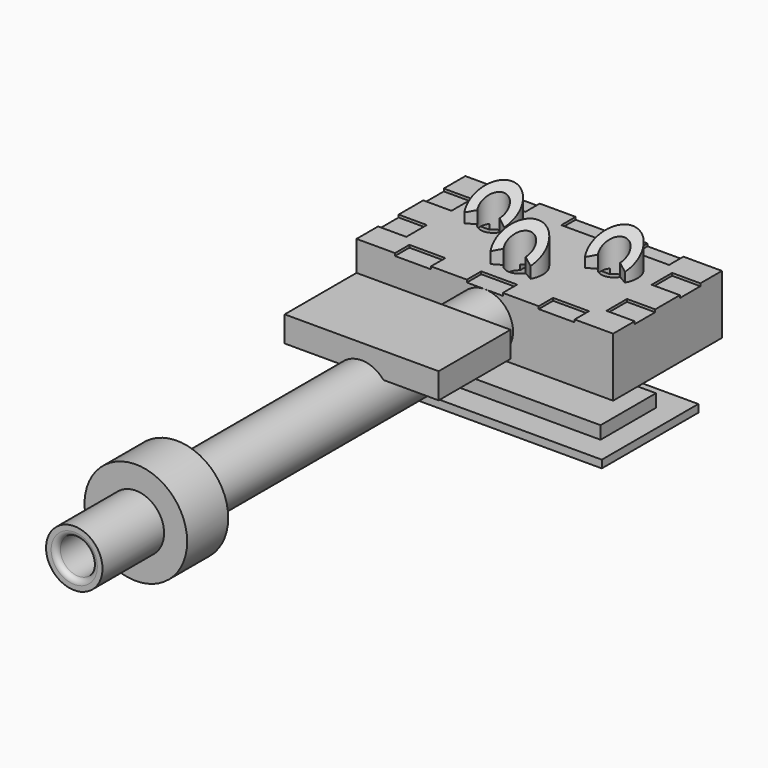
from build123d import *

# Parameters (mm, degrees)
BOX_W                           = 10
BOX_H                           = 5.3
BOX_DEPTH                       = 2.3
CYLINDER001_W                   = 0.9
CYLINDER001_H                   = 3
CYLINDER001_ANGLE               = 240
CYLINDER_R                      = 0.5
CYLINDER_DEPTH                  = 4
CYLINDER002_W                   = 0.9
CYLINDER002_H                   = 3
CYLINDER002_ANGLE               = 240
CYLINDER003_R                   = 0.5
CYLINDER003_DEPTH               = 4
CYLINDER004_W                   = 0.9
CYLINDER004_H                   = 3
CYLINDER004_ANGLE               = 240
CYLINDER005_R                   = 0.5
CYLINDER005_DEPTH               = 4
CYLINDER009_R                   = 1.1
CYLINDER009_DEPTH               = 21
CYLINDER006_R                   = 2
CYLINDER006_DEPTH               = 2
CYLINDER007_R                   = 0.7
CYLINDER007_DEPTH               = 22
BOX003_W                        = 8
BOX003_H                        = 3.3
BOX003_DEPTH                    = 2
BOX004_W                        = 6
BOX004_H                        = 3.5
BOX004_DEPTH                    = 1
BOX005_W                        = 1.4
BOX005_H                        = 0.7
BOX005_DEPTH                    = 0.1
BOX005_LINEARPATTERN_2_W        = 1.4
BOX005_LINEARPATTERN_2_H        = 0.7
BOX005_LINEARPATTERN_2_DEPTH    = 0.1
BOX005_LINEARPATTERN_3_W        = 1.4
BOX005_LINEARPATTERN_3_H        = 0.7
BOX005_LINEARPATTERN_3_DEPTH    = 0.1
LINEARPATTERN001_COUNT          = 2
LINEARPATTERN001_PITCH          = 4.6
BOX006_W                        = 1.1
BOX006_H                        = 1
BOX006_DEPTH                    = 0.2
BOX006_LINEARPATTERN003_2_W     = 1.1
BOX006_LINEARPATTERN003_2_H     = 1
BOX006_LINEARPATTERN003_2_DEPTH = 0.2
LINEARPATTERN004_COUNT          = 2
LINEARPATTERN004_PITCH          = 2.2
BOX007_W                        = 2
BOX007_H                        = 2
BOX007_DEPTH                    = 3.3
BOX008_W                        = 2.2
BOX008_H                        = 2
BOX008_DEPTH                    = 3.3
LINEARPATTERN005_COUNT          = 2
LINEARPATTERN005_PITCH          = 5
BOX009_W                        = 1.7
BOX009_H                        = 0.65
BOX009_DEPTH                    = 1
LINEARPATTERN006_COUNT          = 2
LINEARPATTERN006_PITCH          = 4.6
BOX010_W                        = 0.65
BOX010_H                        = 1.7
BOX010_DEPTH                    = 0.2
FILLET_R                        = 0.2
FILLET001_R                     = 0.2
BOX011_W                        = 9.2
BOX011_H                        = 4.7
BOX011_DEPTH                    = 0.3
BOX012_W                        = 7.5
BOX012_H                        = 2.7
BOX012_DEPTH                    = 0.6


with BuildPart() as body:
    # Box → Box (join)
    with BuildSketch(Plane(origin=(-1, -1, -1.2), x_dir=(1, 0, 0), z_dir=(0, 0, 1))):
        with Locations((5, 2.65)):
            Rectangle(BOX_W, BOX_H)
    extrude(amount=BOX_DEPTH)

    # Cylinder001 → Cylinder001 (revolve)
    with BuildSketch(Plane(origin=(1.7, 2.3, 0.5), x_dir=(0.866025, -0.5, 0), z_dir=(-0.5, -0.866025, 0))):
        with Locations((0.45, 1.5)):
            Rectangle(CYLINDER001_W, CYLINDER001_H)
    revolve(axis=Axis((1.7, 2.3, 0.5), (0, 0, 1)), revolution_arc=CYLINDER001_ANGLE)

    # Cylinder → Cylinder (cut)
    with BuildSketch(Plane(origin=(1.7, 2.3, -1), x_dir=(1, 0, 0), z_dir=(0, 0, 1))):
        Circle(CYLINDER_R)
    extrude(amount=CYLINDER_DEPTH, mode=Mode.SUBTRACT)

    # Cylinder002 → Cylinder002 (revolve)
    with BuildSketch(Plane(origin=(6.4, 2.3, 0.5), x_dir=(0.866025, -0.5, 0), z_dir=(-0.5, -0.866025, 0))):
        with Locations((0.45, 1.5)):
            Rectangle(CYLINDER002_W, CYLINDER002_H)
    revolve(axis=Axis((6.4, 2.3, 0.5), (0, 0, 1)), revolution_arc=CYLINDER002_ANGLE)

    # Cylinder003 → Cylinder003 (cut)
    with BuildSketch(Plane(origin=(6.4, 2.3, -1), x_dir=(1, 0, 0), z_dir=(0, 0, 1))):
        Circle(CYLINDER003_R)
    extrude(amount=CYLINDER003_DEPTH, mode=Mode.SUBTRACT)

    # Cylinder004 → Cylinder004 (revolve)
    with BuildSketch(Plane(origin=(4, 0.7, 0.5), x_dir=(0.866025, -0.5, 0), z_dir=(-0.5, -0.866025, 0))):
        with Locations((0.45, 1.5)):
            Rectangle(CYLINDER004_W, CYLINDER004_H)
    revolve(axis=Axis((4, 0.7, 0.5), (0, 0, 1)), revolution_arc=CYLINDER004_ANGLE)

    # Cylinder005 → Cylinder005 (cut)
    with BuildSketch(Plane(origin=(4, 0.7, -1), x_dir=(1, 0, 0), z_dir=(0, 0, 1))):
        Circle(CYLINDER005_R)
    extrude(amount=CYLINDER005_DEPTH, mode=Mode.SUBTRACT)

    # Cylinder009 → Cylinder009 (join)
    with BuildSketch(Plane(origin=(4, 0, -0.1), x_dir=(1, 0, 0), z_dir=(0, -1, 0))):
        Circle(CYLINDER009_R)
    extrude(amount=CYLINDER009_DEPTH)

    # Cylinder006 → Cylinder006 (join)
    with BuildSketch(Plane(origin=(4, -16, -0.1), x_dir=(1, 0, 0), z_dir=(0, -1, 0))):
        Circle(CYLINDER006_R)
    extrude(amount=CYLINDER006_DEPTH)

    # Cylinder007 → Cylinder007 (cut)
    with BuildSketch(Plane(origin=(4, 1, -0.1), x_dir=(1, 0, 0), z_dir=(0, -1, 0))):
        Circle(CYLINDER007_R)
    extrude(amount=CYLINDER007_DEPTH, mode=Mode.SUBTRACT)

    # Box003 → Box003 (cut)
    with BuildSketch(Plane.XY.offset(-1.3)):
        with Locations((4, 1.65)):
            Rectangle(BOX003_W, BOX003_H)
    extrude(amount=BOX003_DEPTH, mode=Mode.SUBTRACT)

    # Box004 → Box004 (join)
    with BuildSketch(Plane(origin=(1, -7, 0.6), x_dir=(1, 0, 0), z_dir=(0, 0, 1))):
        with Locations((3, 1.75)):
            Rectangle(BOX004_W, BOX004_H)
    extrude(amount=BOX004_DEPTH)

    # Box005 → Box005 (cut)
    with BuildSketch(Plane(origin=(0.5, -1, 1), x_dir=(1, 0, 0), z_dir=(0, 0, 1))):
        with Locations((0.7, 0.35)):
            Rectangle(BOX005_W, BOX005_H)
    box005 = extrude(amount=BOX005_DEPTH, mode=Mode.SUBTRACT)

    # Box005 LinearPattern 2 → Box005 LinearPattern 2 (cut)
    with BuildSketch(Plane(origin=(3.3, -1, 1), x_dir=(1, 0, 0), z_dir=(0, 0, 1))):
        with Locations((0.7, 0.35)):
            Rectangle(BOX005_LINEARPATTERN_2_W, BOX005_LINEARPATTERN_2_H)
    box005_linearpattern_2 = extrude(amount=BOX005_LINEARPATTERN_2_DEPTH, mode=Mode.SUBTRACT)

    # Box005 LinearPattern 3 → Box005 LinearPattern 3 (cut)
    with BuildSketch(Plane(origin=(6.1, -1, 1), x_dir=(1, 0, 0), z_dir=(0, 0, 1))):
        with Locations((0.7, 0.35)):
            Rectangle(BOX005_LINEARPATTERN_3_W, BOX005_LINEARPATTERN_3_H)
    box005_linearpattern_3 = extrude(amount=BOX005_LINEARPATTERN_3_DEPTH, mode=Mode.SUBTRACT)

    # LinearPattern001: Box005, Box005 LinearPattern 2, Box005 LinearPattern 3 ×2
    with Locations(*[(0, i * LINEARPATTERN001_PITCH, 0) for i in range(1, LINEARPATTERN001_COUNT)]):
        add(box005, mode=Mode.SUBTRACT)
        add(box005_linearpattern_2, mode=Mode.SUBTRACT)
        add(box005_linearpattern_3, mode=Mode.SUBTRACT)

    # Box006 → Box006 (cut)
    with BuildSketch(Plane(origin=(-1, 0.05, 1), x_dir=(1, 0, 0), z_dir=(0, 0, 1))):
        with Locations((0.55, 0.5)):
            Rectangle(BOX006_W, BOX006_H)
    box006 = extrude(amount=BOX006_DEPTH, mode=Mode.SUBTRACT)

    # Box006 LinearPattern003 2 → Box006 LinearPattern003 2 (cut)
    with BuildSketch(Plane(origin=(7.9, 0.05, 1), x_dir=(1, 0, 0), z_dir=(0, 0, 1))):
        with Locations((0.55, 0.5)):
            Rectangle(BOX006_LINEARPATTERN003_2_W, BOX006_LINEARPATTERN003_2_H)
    box006_linearpattern003_2 = extrude(amount=BOX006_LINEARPATTERN003_2_DEPTH, mode=Mode.SUBTRACT)

    # LinearPattern004: Box006, Box006 LinearPattern003 2 ×2
    with Locations(*[(0, i * LINEARPATTERN004_PITCH, 0) for i in range(1, LINEARPATTERN004_COUNT)]):
        add(box006, mode=Mode.SUBTRACT)
        add(box006_linearpattern003_2, mode=Mode.SUBTRACT)

    # Box007 → Box007 (cut)
    with BuildSketch(Plane(origin=(3, -1.5, 2.84), x_dir=(1, 0, 0), z_dir=(0, 0.866025, 0.5))):
        with Locations((1, 1)):
            Rectangle(BOX007_W, BOX007_H)
    extrude(amount=BOX007_DEPTH, mode=Mode.SUBTRACT)

    # Box008 → Box008 (cut)
    with BuildSketch(Plane(origin=(0.5, 0.5, 3), x_dir=(1, 0, 0), z_dir=(0, 0.866025, 0.5))):
        with Locations((1.1, 1)):
            Rectangle(BOX008_W, BOX008_H)
    box008 = extrude(amount=BOX008_DEPTH, mode=Mode.SUBTRACT)

    # LinearPattern005: Box008 ×2
    with Locations(*[(i * LINEARPATTERN005_PITCH, 0, 0) for i in range(1, LINEARPATTERN005_COUNT)]):
        add(box008, mode=Mode.SUBTRACT)

    # Box009 → Box009 (cut)
    with BuildSketch(Plane(origin=(0.9, 1.95, -0.1), x_dir=(1, 0, 0), z_dir=(0, 0, 1))):
        with Locations((0.85, 0.325)):
            Rectangle(BOX009_W, BOX009_H)
    box009 = extrude(amount=BOX009_DEPTH, mode=Mode.SUBTRACT)

    # LinearPattern006: Box009 ×2
    with Locations(*[(i * LINEARPATTERN006_PITCH, 0, 0) for i in range(1, LINEARPATTERN006_COUNT)]):
        add(box009, mode=Mode.SUBTRACT)

    # Box010 → Box010 (cut)
    with BuildSketch(Plane(origin=(3.7, 0, 0.7), x_dir=(1, 0, 0), z_dir=(0, 0, 1))):
        with Locations((0.325, 0.85)):
            Rectangle(BOX010_W, BOX010_H)
    extrude(amount=BOX010_DEPTH, mode=Mode.SUBTRACT)

    # Fillet
    fillet_edges = [body.edges().sort_by_distance(p)[0] for p in [
        (3.3, 0, -0.1),
    ]]
    fillet(fillet_edges, radius=FILLET_R)

    # Fillet001
    fillet001_edges = [body.edges().sort_by_distance(p)[0] for p in [
        (3.3, -21, -0.1),
    ]]
    fillet(fillet001_edges, radius=FILLET001_R)


with BuildPart() as body001:
    # Box011 → Box011 (join)
    with BuildSketch(Plane(origin=(-0.8, -0.8, -3.8), x_dir=(1, 0, 0), z_dir=(0, 0, 1))):
        with Locations((4.6, 2.35)):
            Rectangle(BOX011_W, BOX011_H)
    extrude(amount=BOX011_DEPTH)

    # Box012 → Box012 (join)
    with BuildSketch(Plane(origin=(0.05, 0.2, -3.6), x_dir=(1, 0, 0), z_dir=(0, 0, 1))):
        with Locations((3.75, 1.35)):
            Rectangle(BOX012_W, BOX012_H)
    extrude(amount=BOX012_DEPTH)


solid = Compound([body.part, body001.part])
